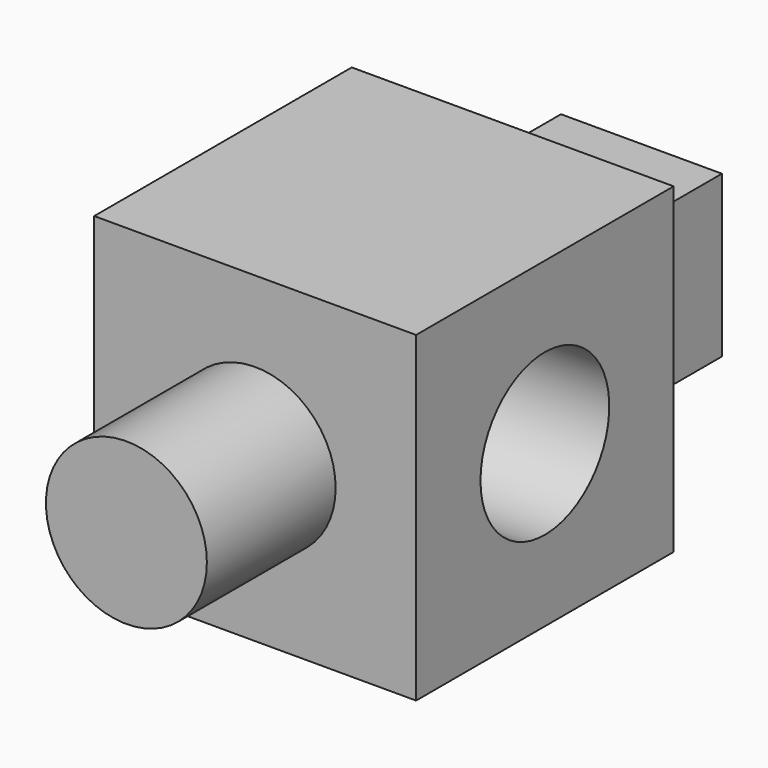
from build123d import *

# Parameters (mm, degrees)
F0_W     = 50.8
F0_H     = 50.8
F1_DEPTH = 50.8
F2_R     = 12.7
F3_DEPTH = 25.4
F4_R     = 12.7
F5_DEPTH = 50.8
F6_W     = 25.4
F6_H     = 25.4
F7_DEPTH = 25.4


with BuildPart() as f1:
    # F0 (on Front) → F1 (new body)
    with BuildSketch(Plane.XZ):
        with Locations((-25.4, 25.4)):
            Rectangle(F0_W, F0_H)
    extrude(amount=F1_DEPTH)

    # F2 (on face) → F3 (join)
    with BuildSketch(Plane.XZ.offset(50.8)):
        with Locations((-25.4, 25.4)):
            Circle(F2_R)
    extrude(amount=F3_DEPTH)

    # F4 (on face) → F5 (cut)
    with BuildSketch(Plane(origin=(-50.8, 0, 0), x_dir=(0, -1, 0), z_dir=(-1, 0, 0))):
        with Locations((25.4, 25.4)):
            Circle(F4_R)
    extrude(amount=-F5_DEPTH, mode=Mode.SUBTRACT)

    # F6 (on face) → F7 (join)
    with BuildSketch(Plane(origin=(0, 0, 0), x_dir=(-1, 0, 0), z_dir=(0, 1, 0))):
        with Locations((25.4, 25.4)):
            Rectangle(F6_W, F6_H)
    extrude(amount=F7_DEPTH)


solid = f1.part
